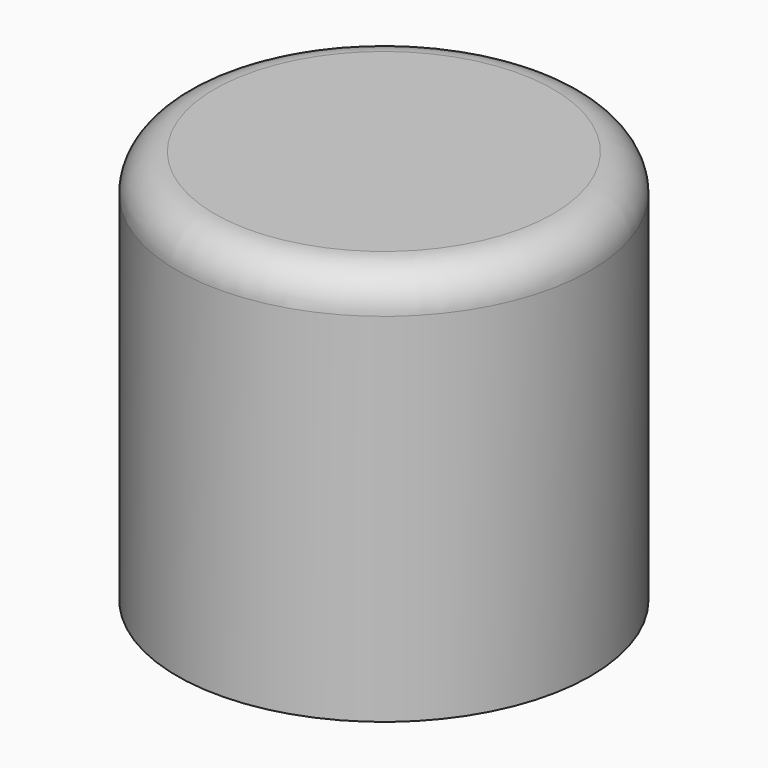
from build123d import *

# Parameters (mm, degrees)
F0_R     = 55
F0_R_2   = 51
F0_R_3   = 47
F1_DEPTH = 5
F2_DEPTH = 50
F3_DEPTH = 100
F4_R     = 10


with BuildPart() as f1:
    # F0 (on Top) → F1 (new body)
    with BuildSketch(Plane.XY):
        Circle(F0_R)
        Circle(F0_R_2, mode=Mode.SUBTRACT)
        Circle(F0_R_2)
        Circle(F0_R_3, mode=Mode.SUBTRACT)
        Circle(F0_R_3)
    extrude(amount=F1_DEPTH)

    # F0 (on Top) → F2 (join)
    with BuildSketch(Plane.XY):
        Circle(F0_R_2)
        Circle(F0_R_3, mode=Mode.SUBTRACT)
    extrude(amount=-F2_DEPTH)

    # F0 (on Top) → F3 (join)
    with BuildSketch(Plane.XY):
        Circle(F0_R)
        Circle(F0_R_2, mode=Mode.SUBTRACT)
    extrude(amount=-F3_DEPTH)

    # F4
    f4_edges = [f1.edges().sort_by_distance(p)[0] for p in [
        (-55, 0, 5),
    ]]
    fillet(f4_edges, radius=F4_R)


solid = f1.part
